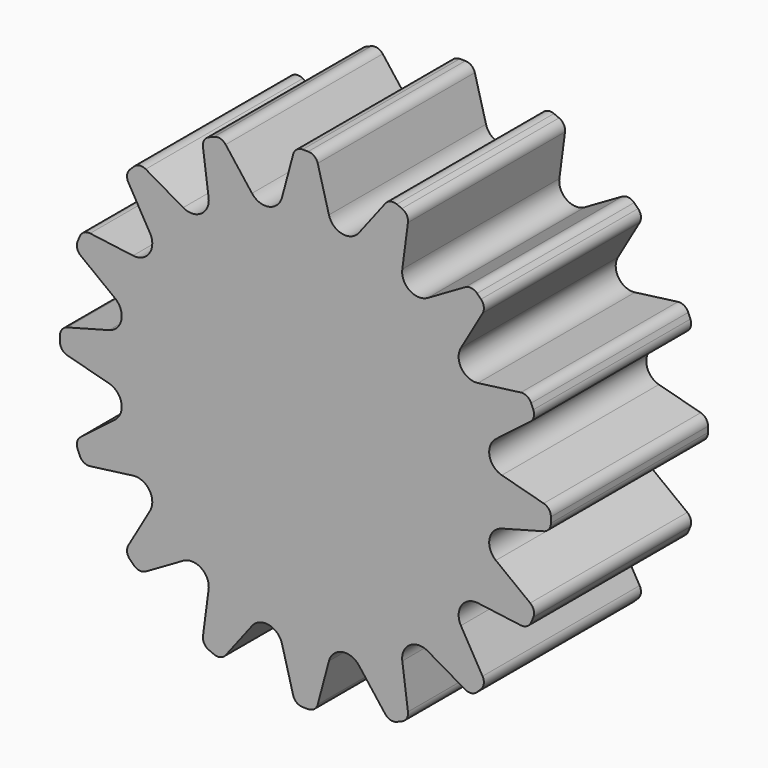
from build123d import *

# Parameters (mm, degrees)
F1_DEPTH = 25.4


with BuildPart() as f1:
    # F0 (on Front) → F1 (new body)
    with BuildSketch(Plane.XZ):
        with BuildLine():
            Line((0.360774, 31.75), (0, 31.75))
            Line((0, 31.75), (-0.360774, 31.75))
            ThreePointArc((-0.360774, 31.75), (-1.133901, 31.487559), (-1.5875, 30.8087))
            Line((-1.5875, 30.8087), (-3.036757, 25.4))
            ThreePointArc((-3.036757, 25.4), (-4.735833, 23.808641), (-6.914562, 24.628657))
            Line((-6.914562, 24.628657), (-10.32332, 29.071037))
            ThreePointArc((-10.32332, 29.071037), (-11.002179, 29.524636), (-11.816887, 29.471237))
            Line((-11.816887, 29.471237), (-12.150199, 29.333175))
            Line((-12.150199, 29.333175), (-12.483511, 29.195113))
            ThreePointArc((-12.483511, 29.195113), (-13.097355, 28.656786), (-13.256638, 27.856018))
            Line((-13.256638, 27.856018), (-12.525757, 22.304424))
            ThreePointArc((-12.525757, 22.304424), (-13.486512, 20.183992), (-15.813201, 20.107824))
            Line((-15.813201, 20.107824), (-20.662509, 22.907573))
            ThreePointArc((-20.662509, 22.907573), (-21.463277, 23.066856), (-22.195534, 22.705746))
            Line((-22.195534, 22.705746), (-22.45064, 22.45064))
            Line((-22.45064, 22.45064), (-22.705746, 22.195534))
            ThreePointArc((-22.705746, 22.195534), (-23.066856, 21.463277), (-22.907573, 20.662509))
            Line((-22.907573, 20.662509), (-20.107824, 15.813201))
            ThreePointArc((-20.107824, 15.813201), (-20.183992, 13.486512), (-22.304424, 12.525757))
            Line((-22.304424, 12.525757), (-27.856018, 13.256638))
            ThreePointArc((-27.856018, 13.256638), (-28.656786, 13.097355), (-29.195113, 12.483511))
            Line((-29.195113, 12.483511), (-29.333175, 12.150199))
            Line((-29.333175, 12.150199), (-29.471237, 11.816887))
            ThreePointArc((-29.471237, 11.816887), (-29.524636, 11.002179), (-29.071037, 10.32332))
            Line((-29.071037, 10.32332), (-24.628657, 6.914562))
            ThreePointArc((-24.628657, 6.914562), (-23.808641, 4.735833), (-25.4, 3.036757))
            Line((-25.4, 3.036757), (-30.8087, 1.5875))
            ThreePointArc((-30.8087, 1.5875), (-31.487559, 1.133901), (-31.75, 0.360774))
            Line((-31.75, 0.360774), (-31.75, 0))
            Line((-31.75, 0), (-31.75, -0.360774))
            ThreePointArc((-31.75, -0.360774), (-31.487559, -1.133901), (-30.8087, -1.5875))
            Line((-30.8087, -1.5875), (-25.4, -3.036757))
            ThreePointArc((-25.4, -3.036757), (-23.808641, -4.735833), (-24.628657, -6.914562))
            Line((-24.628657, -6.914562), (-29.071037, -10.32332))
            ThreePointArc((-29.071037, -10.32332), (-29.524636, -11.002179), (-29.471237, -11.816887))
            Line((-29.471237, -11.816887), (-29.333175, -12.150199))
            Line((-29.333175, -12.150199), (-29.195113, -12.483511))
            ThreePointArc((-29.195113, -12.483511), (-28.656786, -13.097355), (-27.856018, -13.256638))
            Line((-27.856018, -13.256638), (-22.304424, -12.525757))
            ThreePointArc((-22.304424, -12.525757), (-20.183992, -13.486512), (-20.107824, -15.813201))
            Line((-20.107824, -15.813201), (-22.907573, -20.662509))
            ThreePointArc((-22.907573, -20.662509), (-23.066856, -21.463277), (-22.705746, -22.195534))
            Line((-22.705746, -22.195534), (-22.45064, -22.45064))
            Line((-22.45064, -22.45064), (-22.195534, -22.705746))
            ThreePointArc((-22.195534, -22.705746), (-21.463277, -23.066856), (-20.662509, -22.907573))
            Line((-20.662509, -22.907573), (-15.813201, -20.107824))
            ThreePointArc((-15.813201, -20.107824), (-13.486512, -20.183992), (-12.525757, -22.304424))
            Line((-12.525757, -22.304424), (-13.256638, -27.856018))
            ThreePointArc((-13.256638, -27.856018), (-13.097355, -28.656786), (-12.483511, -29.195113))
            Line((-12.483511, -29.195113), (-12.150199, -29.333175))
            Line((-12.150199, -29.333175), (-11.816887, -29.471237))
            ThreePointArc((-11.816887, -29.471237), (-11.002179, -29.524636), (-10.32332, -29.071037))
            Line((-10.32332, -29.071037), (-6.914562, -24.628657))
            ThreePointArc((-6.914562, -24.628657), (-4.735833, -23.808641), (-3.036757, -25.4))
            Line((-3.036757, -25.4), (-1.5875, -30.8087))
            ThreePointArc((-1.5875, -30.8087), (-1.133901, -31.487559), (-0.360774, -31.75))
            Line((-0.360774, -31.75), (0, -31.75))
            Line((0, -31.75), (0.360774, -31.75))
            ThreePointArc((0.360774, -31.75), (1.133901, -31.487559), (1.5875, -30.8087))
            Line((1.5875, -30.8087), (3.036757, -25.4))
            ThreePointArc((3.036757, -25.4), (4.735833, -23.808641), (6.914562, -24.628657))
            Line((6.914562, -24.628657), (10.32332, -29.071037))
            ThreePointArc((10.32332, -29.071037), (11.002179, -29.524636), (11.816887, -29.471237))
            Line((11.816887, -29.471237), (12.150199, -29.333175))
            Line((12.150199, -29.333175), (12.483511, -29.195113))
            ThreePointArc((12.483511, -29.195113), (13.097355, -28.656786), (13.256638, -27.856018))
            Line((13.256638, -27.856018), (12.525757, -22.304424))
            ThreePointArc((12.525757, -22.304424), (13.486512, -20.183992), (15.813201, -20.107824))
            Line((15.813201, -20.107824), (20.662509, -22.907573))
            ThreePointArc((20.662509, -22.907573), (21.463277, -23.066856), (22.195534, -22.705746))
            Line((22.195534, -22.705746), (22.45064, -22.45064))
            Line((22.45064, -22.45064), (22.705746, -22.195534))
            ThreePointArc((22.705746, -22.195534), (23.066856, -21.463277), (22.907573, -20.662509))
            Line((22.907573, -20.662509), (20.107824, -15.813201))
            ThreePointArc((20.107824, -15.813201), (20.183992, -13.486512), (22.304424, -12.525757))
            Line((22.304424, -12.525757), (27.856018, -13.256638))
            ThreePointArc((27.856018, -13.256638), (28.656786, -13.097355), (29.195113, -12.483511))
            Line((29.195113, -12.483511), (29.333175, -12.150199))
            Line((29.333175, -12.150199), (29.471237, -11.816887))
            ThreePointArc((29.471237, -11.816887), (29.524636, -11.002179), (29.071037, -10.32332))
            Line((29.071037, -10.32332), (24.628657, -6.914562))
            ThreePointArc((24.628657, -6.914562), (23.808641, -4.735833), (25.4, -3.036757))
            Line((25.4, -3.036757), (30.8087, -1.5875))
            ThreePointArc((30.8087, -1.5875), (31.487559, -1.133901), (31.75, -0.360774))
            Line((31.75, -0.360774), (31.75, 0))
            Line((31.75, 0), (31.75, 0.360774))
            ThreePointArc((31.75, 0.360774), (31.487559, 1.133901), (30.8087, 1.5875))
            Line((30.8087, 1.5875), (25.4, 3.036757))
            ThreePointArc((25.4, 3.036757), (23.808641, 4.735833), (24.628657, 6.914562))
            Line((24.628657, 6.914562), (29.071037, 10.32332))
            ThreePointArc((29.071037, 10.32332), (29.524636, 11.002179), (29.471237, 11.816887))
            Line((29.471237, 11.816887), (29.333175, 12.150199))
            Line((29.333175, 12.150199), (29.195113, 12.483511))
            ThreePointArc((29.195113, 12.483511), (28.656786, 13.097355), (27.856018, 13.256638))
            Line((27.856018, 13.256638), (22.304424, 12.525757))
            ThreePointArc((22.304424, 12.525757), (20.183992, 13.486512), (20.107824, 15.813201))
            Line((20.107824, 15.813201), (22.907573, 20.662509))
            ThreePointArc((22.907573, 20.662509), (23.066856, 21.463277), (22.705746, 22.195534))
            Line((22.705746, 22.195534), (22.45064, 22.45064))
            Line((22.45064, 22.45064), (22.195534, 22.705746))
            ThreePointArc((22.195534, 22.705746), (21.463277, 23.066856), (20.662509, 22.907573))
            Line((20.662509, 22.907573), (15.813201, 20.107824))
            ThreePointArc((15.813201, 20.107824), (13.486512, 20.183992), (12.525757, 22.304424))
            Line((12.525757, 22.304424), (13.256638, 27.856018))
            ThreePointArc((13.256638, 27.856018), (13.097355, 28.656786), (12.483511, 29.195113))
            Line((12.483511, 29.195113), (12.150199, 29.333175))
            Line((12.150199, 29.333175), (11.816887, 29.471237))
            ThreePointArc((11.816887, 29.471237), (11.002179, 29.524636), (10.32332, 29.071037))
            Line((10.32332, 29.071037), (6.914562, 24.628657))
            ThreePointArc((6.914562, 24.628657), (4.735833, 23.808641), (3.036757, 25.4))
            Line((3.036757, 25.4), (1.5875, 30.8087))
            ThreePointArc((1.5875, 30.8087), (1.133901, 31.487559), (0.360774, 31.75))
        make_face()
    extrude(amount=F1_DEPTH)


solid = f1.part
